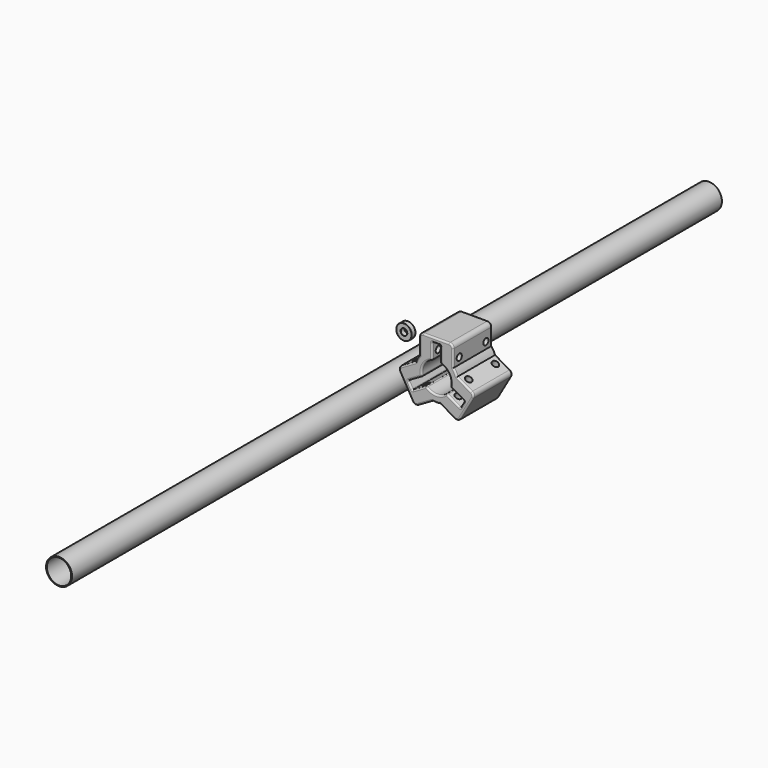
from build123d import *

# Parameters (mm, degrees)
F0_R      = 9.5
F0_R_2    = 4
F1_DEPTH  = 3
F2_R      = 0.2
F4_DEPTH  = 30
F6_DEPTH  = 27.6
F5_R      = 4
F7_DEPTH  = 33
F8_R      = 4
F9_DEPTH  = 29.9
F10_R     = 4
F11_DEPTH = 32.7
F12_R     = 2
F13_R     = 16
F13_R_2   = 15
F14_DEPTH = 500


with BuildPart() as f1:
    # F0 (on Front) → F1 (new body, symmetric)
    with BuildSketch(Plane.XZ):
        with Locations((-38.8339087367, 28.7414863706)):
            Circle(F0_R)
        with Locations((-38.8339087367, 28.7414863706)):
            Circle(F0_R_2, mode=Mode.SUBTRACT)
    extrude(amount=F1_DEPTH, both=True)

    # F2
    f2_edges = [f1.edges().sort_by_distance(p)[0] for p in [
        (-48.333909, -3, 28.741486),
        (-42.833909, -3, 28.741486),
        (-48.333909, 3, 28.741486),
        (-42.833909, 3, 28.741486),
    ]]
    fillet(f2_edges, radius=F2_R)


with BuildPart() as f4:
    # F3 (on Front) → F4 (new body, symmetric)
    with BuildSketch(Plane.XZ):
        with BuildLine():
            Line((1.692879192, 47.9350300857), (1.692879192, 27.3215616861))
            ThreePointArc((1.692879192, 27.3215616861), (-0.9904341008, 23.4833331932), (-2.9727808348, 19.2404014689))
            Line((-2.9727808348, 19.2404014689), (-20.8245681289, 8.9336672691))
            ThreePointArc((-20.8245681289, 8.9336672691), (-23.1541972604, 5.8976354757), (-22.6546951479, 2.1035402502))
            Line((-22.6546951479, 2.1035402502), (-6.8716591021, -25.2334800787))
            ThreePointArc((-6.8716591021, -25.2334800787), (-3.8356273087, -27.5631092102), (-0.0415320832, -27.0636070976))
            Line((-0.0415320832, -27.0636070976), (17.810255211, -16.7568728978))
            ThreePointArc((17.810255211, -16.7568728978), (22.4759152377, -17.1615761292), (27.1415752645, -16.7568728978))
            Line((27.1415752645, -16.7568728978), (44.9933625587, -27.0636070976))
            ThreePointArc((44.9933625587, -27.0636070976), (48.7874577842, -27.5631092102), (51.8234895776, -25.2334800787))
            Line((51.8234895776, -25.2334800787), (67.6065256233, 2.1035402502))
            ThreePointArc((67.6065256233, 2.1035402502), (68.1060277359, 5.8976354757), (65.7763986044, 8.9336672691))
            Line((65.7763986044, 8.9336672691), (47.9246113102, 19.2404014689))
            ThreePointArc((47.9246113102, 19.2404014689), (45.9422645763, 23.4833331932), (43.2589512835, 27.3215616861))
            Line((43.2589512835, 27.3215616861), (43.2589512835, 47.9350300857))
            ThreePointArc((43.2589512835, 47.9350300857), (41.7944851894, 51.4705639917), (38.2589512835, 52.9350300857))
            Line((38.2589512835, 52.9350300857), (6.692879192, 52.9350300857))
            ThreePointArc((6.692879192, 52.9350300857), (3.1573452861, 51.4705639917), (1.692879192, 47.9350300857))
        make_face()
        with BuildLine():
            ThreePointArc((4.7251237022, 6.9611457627), (6.8890316147, 18.9341215413), (16.1759788416, 26.7946086543))
            ThreePointArc((16.1759788416, 26.7946086543), (17.1191022642, 27.5279367555), (17.4759152377, 28.6680842881))
            Line((17.4759152377, 28.6680842881), (17.4759152377, 45.9350300857))
            ThreePointArc((17.4759152377, 45.9350300857), (17.7688084566, 46.6421368669), (18.4759152377, 46.9350300857))
            Line((18.4759152377, 46.9350300857), (26.4759152377, 46.9350300857))
            ThreePointArc((26.4759152377, 46.9350300857), (27.1830220189, 46.6421368669), (27.4759152377, 45.9350300857))
            Line((27.4759152377, 45.9350300857), (27.4759152377, 28.6680842881))
            ThreePointArc((27.4759152377, 28.6680842881), (27.8327282113, 27.5279367555), (28.7758516339, 26.7946086543))
            ThreePointArc((28.7758516339, 26.7946086543), (38.0627988608, 18.9341215413), (40.2267067732, 6.9611457627))
            ThreePointArc((40.2267067732, 6.9611457627), (40.3902258269, 5.7777128693), (41.1992160674, 4.8986300035))
            Line((41.1992160674, 4.8986300035), (56.152829774, -3.7348428954))
            ThreePointArc((56.152829774, -3.7348428954), (56.6187556003, -4.342049254), (56.5188551778, -5.1008682991))
            Line((56.5188551778, -5.1008682991), (52.5188551778, -12.0290715294))
            ThreePointArc((52.5188551778, -12.0290715294), (51.9116488191, -12.4949973557), (51.152829774, -12.3950969332))
            Line((51.152829774, -12.3950969332), (36.1992160674, -3.7616240344))
            ThreePointArc((36.1992160674, -3.7616240344), (35.0334128534, -3.5005593676), (33.9267703771, -3.9506641598))
            ThreePointArc((33.9267703771, -3.9506641598), (22.4759152377, -8.0631528254), (11.0250600984, -3.9506641598))
            ThreePointArc((11.0250600984, -3.9506641598), (9.9184176221, -3.5005593676), (8.752614408, -3.7616240344))
            Line((8.752614408, -3.7616240344), (-6.2009992985, -12.3950969332))
            ThreePointArc((-6.2009992985, -12.3950969332), (-6.9598183436, -12.4949973557), (-7.5670247023, -12.0290715294))
            Line((-7.5670247023, -12.0290715294), (-11.5670247023, -5.1008682991))
            ThreePointArc((-11.5670247023, -5.1008682991), (-11.6669251248, -4.342049254), (-11.2009992985, -3.7348428954))
            Line((-11.2009992985, -3.7348428954), (3.752614408, 4.8986300035))
            ThreePointArc((3.752614408, 4.8986300035), (4.5616046486, 5.7777128693), (4.7251237022, 6.9611457627))
        make_face(mode=Mode.SUBTRACT)
    extrude(amount=F4_DEPTH, both=True)

    # F5 (on face) → F6 (cut, symmetric)
    with BuildSketch(Plane(origin=(27.4759152377, 0, 0), x_dir=(0, -1, 0), z_dir=(-1, 0, 0))):
        with BuildLine():
            ThreePointArc((24.5, 35.4350342881), (17.6715728753, 38.2634614128), (20.5, 31.4350342881))
            ThreePointArc((20.5, 31.4350342881), (23.3284271247, 32.6066071633), (24.5, 35.4350342881))
        make_face()
    extrude(amount=F6_DEPTH, both=True, mode=Mode.SUBTRACT)

    # F5 (on face) → F7 (cut, symmetric)
    with BuildSketch(Plane(origin=(27.4759152377, 0, 0), x_dir=(0, -1, 0), z_dir=(-1, 0, 0))):
        with Locations((-20.5, 35.4350342881)):
            Circle(F5_R)
    extrude(amount=F7_DEPTH, both=True, mode=Mode.SUBTRACT)

    # F8 (on face) → F9 (cut, symmetric)
    with BuildSketch(Plane(origin=(3.8169845886, 0, -6.6112112392), x_dir=(0.8660254038, 0, 0.5), z_dir=(-0.5, 0, 0.8660254038))):
        with Locations((-1.0677755903, -20.5)):
            Circle(F8_R)
        with Locations((-1.0677755903, 20.5)):
            Circle(F8_R)
    extrude(amount=F9_DEPTH, both=True, mode=Mode.SUBTRACT)

    # F10 (on face) → F11 (cut, symmetric)
    with BuildSketch(Plane(origin=(12.4209730302, 0, 21.5137563678), x_dir=(0.8660254038, 0, -0.5), z_dir=(-0.5, 0, -0.8660254038))):
        with Locations((39.9972027287, 20.5)):
            Circle(F10_R)
        with BuildLine():
            Line((35.9972027287, -20.5), (43.9972027287, -20.5))
            ThreePointArc((43.9972027287, -20.5), (39.9972027287, -16.5), (35.9972027287, -20.5))
        make_face()
        with BuildLine():
            ThreePointArc((35.9972027287, -20.5), (39.9972027287, -24.5), (43.9972027287, -20.5))
            Line((43.9972027287, -20.5), (35.9972027287, -20.5))
        make_face()
    extrude(amount=F11_DEPTH, both=True, mode=Mode.SUBTRACT)

    # F12
    f12_edges = [f4.edges().sort_by_distance(p)[0] for p in [
        (1.692879, 30, 37.628296),
        (-0.990434, 30, 23.483333),
        (-11.898674, 30, 14.087034),
        (-23.154197, 30, 5.897635),
        (-14.763177, 30, -11.56497),
        (-3.835627, 30, -27.563109),
        (8.884362, 30, -21.91024),
        (22.475915, 30, -17.161576),
        (36.067469, 30, -21.91024),
        (48.787458, 30, -27.563109),
        (59.715008, 30, -11.56497),
        (68.106028, 30, 5.897635),
        (56.850505, 30, 14.087034),
        (45.942265, 30, 23.483333),
        (43.258951, 30, 37.628296),
        (41.794485, 30, 51.470564),
        (22.475915, 30, 52.93503),
        (3.157345, 30, 51.470564),
        (-9.567025, 30, -8.56497),
        (-11.666925, 30, -4.342049),
        (-3.724192, 30, 0.581894),
        (4.561605, 30, 5.777713),
        (6.889032, 30, 18.934122),
        (17.119102, 30, 27.527937),
        (17.475915, 30, 37.301557),
        (17.768808, 30, 46.642137),
        (22.475915, 30, 46.93503),
        (27.183022, 30, 46.642137),
        (27.475915, 30, 37.301557),
        (27.832728, 30, 27.527937),
        (38.062799, 30, 18.934122),
        (40.390226, 30, 5.777713),
        (48.676023, 30, 0.581894),
        (56.618756, 30, -4.342049),
        (54.518855, 30, -8.56497),
        (51.911649, 30, -12.494997),
        (43.676023, 30, -8.07836),
        (35.033413, 30, -3.500559),
        (22.475915, 30, -8.063153),
        (9.918418, 30, -3.500559),
        (1.275808, 30, -8.07836),
        (-6.959818, 30, -12.494997),
        (1.692879, -30, 37.628296),
        (-0.990434, -30, 23.483333),
        (-11.898674, -30, 14.087034),
        (-23.154197, -30, 5.897635),
        (-14.763177, -30, -11.56497),
        (-3.835627, -30, -27.563109),
        (8.884362, -30, -21.91024),
        (22.475915, -30, -17.161576),
        (36.067469, -30, -21.91024),
        (48.787458, -30, -27.563109),
        (59.715008, -30, -11.56497),
        (68.106028, -30, 5.897635),
        (56.850505, -30, 14.087034),
        (45.942265, -30, 23.483333),
        (43.258951, -30, 37.628296),
        (41.794485, -30, 51.470564),
        (22.475915, -30, 52.93503),
        (3.157345, -30, 51.470564),
        (-9.567025, -30, -8.56497),
        (-11.666925, -30, -4.342049),
        (-3.724192, -30, 0.581894),
        (4.561605, -30, 5.777713),
        (6.889032, -30, 18.934122),
        (17.119102, -30, 27.527937),
        (17.475915, -30, 37.301557),
        (17.768808, -30, 46.642137),
        (22.475915, -30, 46.93503),
        (27.183022, -30, 46.642137),
        (27.475915, -30, 37.301557),
        (27.832728, -30, 27.527937),
        (38.062799, -30, 18.934122),
        (40.390226, -30, 5.777713),
        (48.676023, -30, 0.581894),
        (56.618756, -30, -4.342049),
        (54.518855, -30, -8.56497),
        (51.911649, -30, -12.494997),
        (43.676023, -30, -8.07836),
        (35.033413, -30, -3.500559),
        (22.475915, -30, -8.063153),
        (9.918418, -30, -3.500559),
        (1.275808, -30, -8.07836),
        (-6.959818, -30, -12.494997),
    ]]
    fillet(f12_edges, radius=F12_R)


with BuildPart() as f14:
    # F13 (on Front) → F14 (new body, symmetric)
    with BuildSketch(Plane.XZ):
        with Locations((-65.7756403089, -37.4722443521)):
            Circle(F13_R)
        with Locations((-65.7756403089, -37.4722443521)):
            Circle(F13_R_2, mode=Mode.SUBTRACT)
    extrude(amount=F14_DEPTH, both=True)


solid = Compound([f1.part, f4.part, f14.part])
